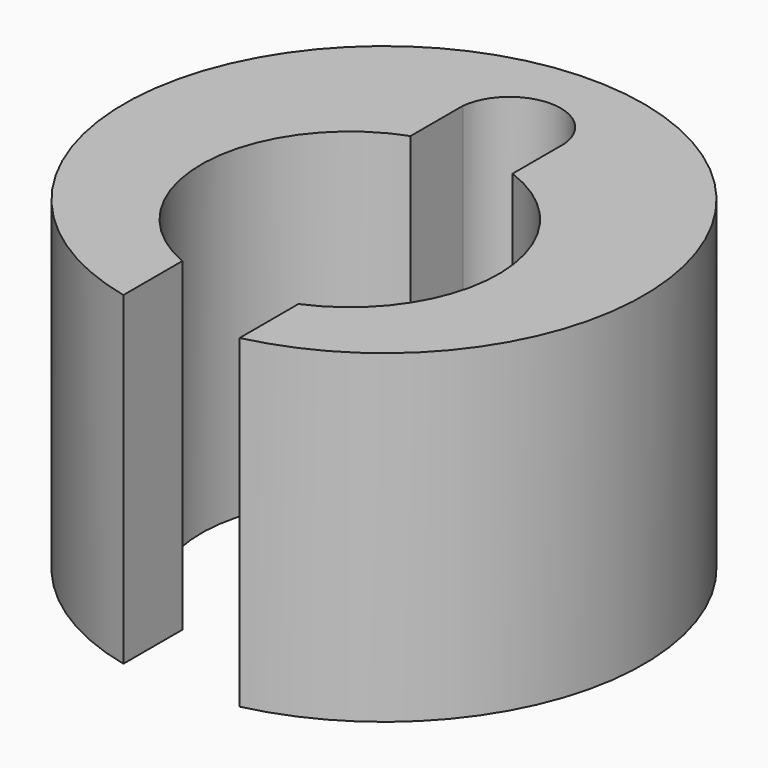
from build123d import *

# Parameters (mm, degrees)
F1_DEPTH = 2.375


with BuildPart() as f1:
    # F0 (on Top) → F1 (new body, symmetric)
    with BuildSketch(Plane.XY):
        with BuildLine():
            Line((0.85, -2.62703), (0.85, -3.703714))
            ThreePointArc((0.85, -3.703714), (0, 3.8), (-0.85, -3.703714))
            Line((-0.85, -3.703714), (-0.85, -2.62703))
            ThreePointArc((-0.85, -2.62703), (-2.174282, -0.569108), (-0.746016, 1.418058))
            Line((-0.746016, 1.418058), (-0.746016, 2.374001))
            ThreePointArc((-0.746016, 2.374001), (0, 3.046803), (0.746016, 2.374001))
            Line((0.746016, 2.374001), (0.746016, 1.418058))
            ThreePointArc((0.746016, 1.418058), (2.174282, -0.569108), (0.85, -2.62703))
        make_face()
    extrude(amount=F1_DEPTH, both=True)


solid = f1.part
